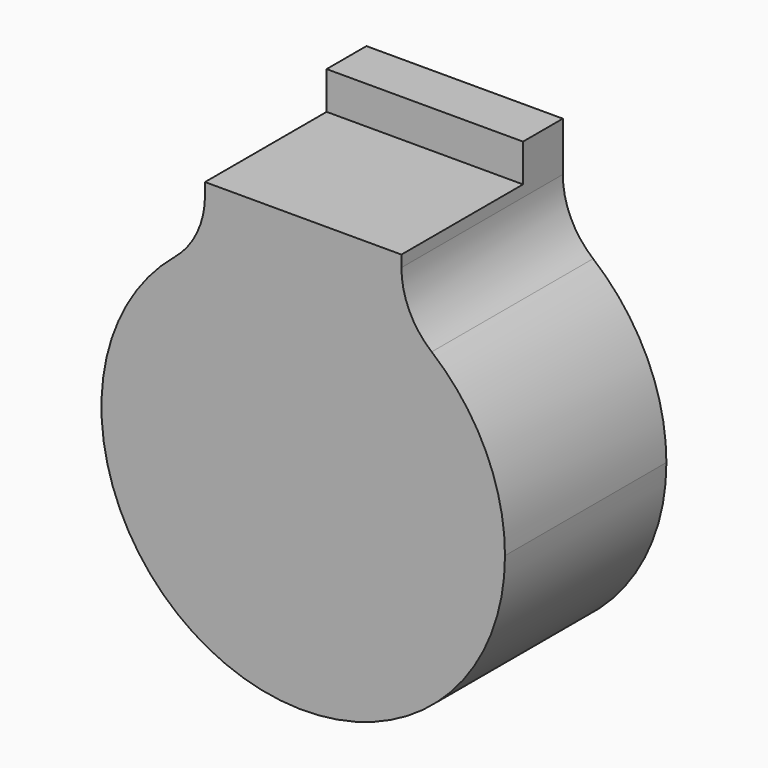
from build123d import *

# Parameters (mm, degrees)
F1_DEPTH = 3.81
F2_R     = 1.5748
F4_W     = 3.7084
F4_H     = 2.870018
F5_DEPTH = 0.7112


with BuildPart() as f1:
    # F0 (on Front) → F1 (new body)
    with BuildSketch(Plane.XZ):
        with BuildLine():
            ThreePointArc((-1.8542, 3.328369), (-1.930233, -3.284859), (3.81, 0))
            ThreePointArc((3.81, 0), (3.284859, 1.930233), (1.8542, 3.328369))
            ThreePointArc((1.8542, 3.328369), (0.957866, 3.687627), (0, 3.81))
            ThreePointArc((0, 3.81), (-0.957866, 3.687627), (-1.8542, 3.328369))
        make_face()
        with BuildLine():
            ThreePointArc((0, 3.81), (0.957866, 3.687627), (1.8542, 3.328369))
            Line((1.8542, 3.328369), (1.8542, 5.08))
            Line((1.8542, 5.08), (0, 5.08))
            Line((0, 5.08), (0, 3.81))
        make_face()
        with BuildLine():
            Line((-1.8542, 5.08), (-1.8542, 3.328369))
            ThreePointArc((-1.8542, 3.328369), (-0.957866, 3.687627), (0, 3.81))
            Line((0, 3.81), (0, 5.08))
            Line((0, 5.08), (-1.8542, 5.08))
        make_face()
    extrude(amount=-F1_DEPTH)

    # F2
    f2_edges = [f1.edges().sort_by_distance(p)[0] for p in [
        (1.8542, 1.905, 3.328369),
        (-1.8542, 1.905, 3.328369),
    ]]
    fillet(f2_edges, radius=F2_R)

    # F4 (on face) → F5 (cut)
    with BuildSketch(Plane.XY.offset(5.08)):
        with Locations((0, 1.435009)):
            Rectangle(F4_W, F4_H)
    extrude(amount=-F5_DEPTH, mode=Mode.SUBTRACT)


solid = f1.part
